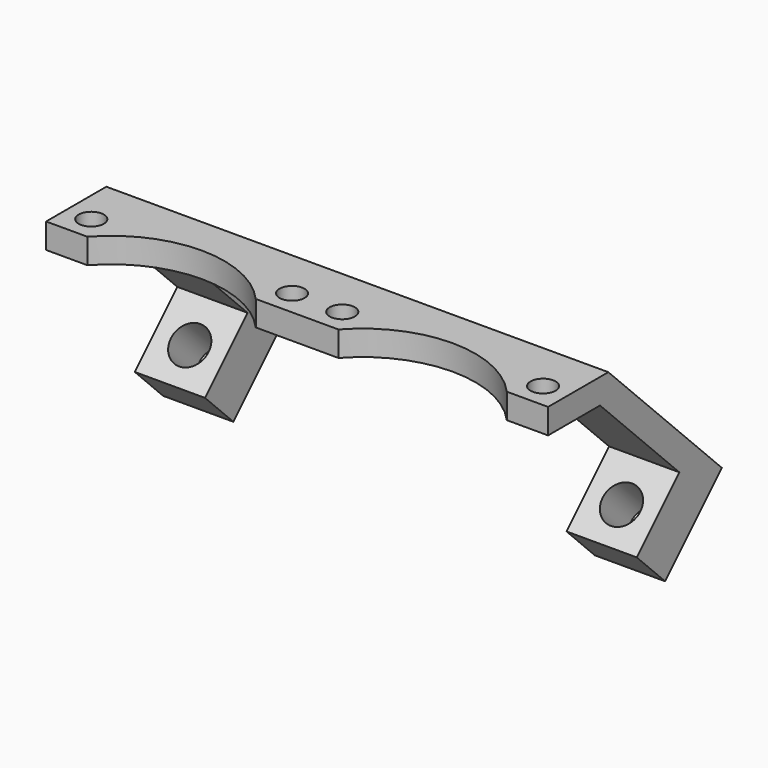
from build123d import *

# Parameters (mm, degrees)
F0_R     = 2.5
F0_W     = 100
F0_H     = 5
F1_DEPTH = 5
F3_START = 36
F3_DEPTH = 14
F4_START = -36
F4_DEPTH = 14
F5_R     = 3.75
F6_DEPTH = 10
F8_DEPTH = 50


with BuildPart() as f1:
    # F0 (on Top) → F1 (new body)
    with BuildSketch(Plane.XY):
        with BuildLine():
            Line((50, 10), (-50, 10))
            Line((-50, 10), (-50, 0))
            Line((-50, 0), (-41.7705098312, 0))
            ThreePointArc((-41.7705098312, 0), (-25, 7.5), (-8.2294901688, 0))
            Line((-8.2294901688, 0), (8.2294901688, 0))
            ThreePointArc((8.2294901688, 0), (25, 7.5), (41.7705098312, 0))
            Line((41.7705098312, 0), (50, 0))
            Line((50, 0), (50, 10))
        make_face()
        with Locations((-45, 5)):
            Circle(F0_R, mode=Mode.SUBTRACT)
        with Locations((-5, 5)):
            Circle(F0_R, mode=Mode.SUBTRACT)
        with Locations((5, 5)):
            Circle(F0_R, mode=Mode.SUBTRACT)
        with Locations((45, 5)):
            Circle(F0_R, mode=Mode.SUBTRACT)
        with Locations((0, 12.5)):
            Rectangle(F0_W, F0_H)
        with BuildLine():
            Line((50, 10), (-50, 10))
            Line((-50, 10), (-50, 0))
            Line((-50, 0), (-41.7705098312, 0))
            ThreePointArc((-41.7705098312, 0), (-25, 7.5), (-8.2294901688, 0))
            Line((-8.2294901688, 0), (8.2294901688, 0))
            ThreePointArc((8.2294901688, 0), (25, 7.5), (41.7705098312, 0))
            Line((41.7705098312, 0), (50, 0))
            Line((50, 0), (50, 10))
        make_face()
        with Locations((-45, 5)):
            Circle(F0_R, mode=Mode.SUBTRACT)
        with Locations((-5, 5)):
            Circle(F0_R, mode=Mode.SUBTRACT)
        with Locations((5, 5)):
            Circle(F0_R, mode=Mode.SUBTRACT)
        with Locations((45, 5)):
            Circle(F0_R, mode=Mode.SUBTRACT)
    extrude(amount=F1_DEPTH)

    # F2 (on Right) → F3 (join)
    with BuildSketch(Plane.YZ.offset(F3_START)):
        Polygon((36.2132034356, -16.2132034356), (15, 5), (12.9289321881, 0), (32.6776695297, -19.7487373415), align=None)
        Polygon((43.2842712475, -23.2842712475), (36.2132034356, -16.2132034356), (32.6776695297, -19.7487373415), (22.0710678119, -30.3553390593), (29.1421356237, -37.4264068712), align=None)
    extrude(amount=F3_DEPTH)

    # F2 (on Right) → F4 (join)
    with BuildSketch(Plane.YZ.offset(F4_START)):
        Polygon((36.2132034356, -16.2132034356), (15, 5), (12.9289321881, 0), (32.6776695297, -19.7487373415), align=None)
        Polygon((43.2842712475, -23.2842712475), (36.2132034356, -16.2132034356), (32.6776695297, -19.7487373415), (22.0710678119, -30.3553390593), (29.1421356237, -37.4264068712), align=None)
    extrude(amount=-F4_DEPTH)

    # F5 (on face) → F6 (cut)
    with BuildSketch(Plane(origin=(0, 33.2842712475, -33.2842712475), x_dir=(-1, 0, 0), z_dir=(0, 0.7071067812, -0.7071067812))):
        with Locations((43, 1.1421356237)):
            Circle(F5_R)
        with Locations((-43, 1.1421356237)):
            Circle(F5_R)
    extrude(amount=-F6_DEPTH, mode=Mode.SUBTRACT)

    # F7 (on Right) → F8 (join, symmetric)
    with BuildSketch(Plane.YZ):
        Polygon((20, 0), (15, 5), (15, 0), align=None)
    extrude(amount=F8_DEPTH, both=True)


solid = f1.part
